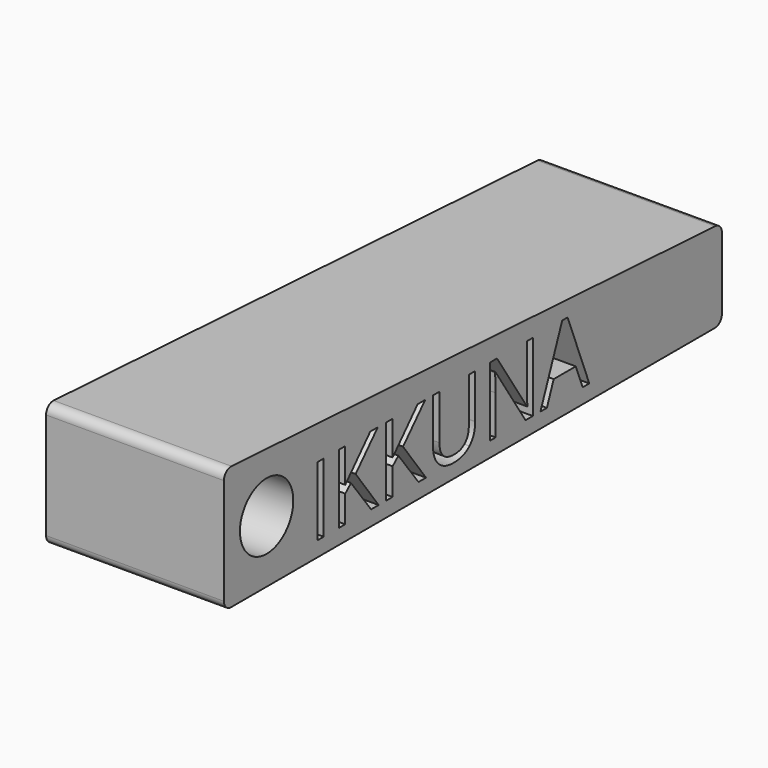
from build123d import *

# Parameters (mm, degrees)
F0_W     = 1.8008393743
F0_H     = 15.4953580059
F1_DEPTH = 40
F2_R     = 2


with BuildPart() as f1:
    # F0 (on Right) → F1 (new body)
    with BuildSketch(Plane.YZ):
        Polygon((0, 14), (0, 0), (140, 0), (140, 20), (0, 28), align=None)
        with Locations((27.1479118072, 11.1200559583)):
            Rectangle(F0_W, F0_H, mode=Mode.SUBTRACT)
        Polygon((37.0253970758, 12.135783628), (43.4894269202, 3.3723769554), (41.3697948883, 3.3723769554), (35.7230951554, 10.8877442876), (34.0986091661, 9.4463945059), (34.0986091661, 3.3723769554), (32.2977697919, 3.3723769554), (32.2977697919, 18.8677349612), (34.0986091661, 18.8677349612), (34.0986091661, 11.1827970664), (41.1256132782, 18.8677349612), (43.2554195439, 18.8677349612), align=None, mode=Mode.SUBTRACT)
        Polygon((50.3468604697, 12.135783628), (56.8108903141, 3.3723769554), (54.6912582823, 3.3723769554), (49.0445585493, 10.8877442876), (47.4200725601, 9.4463945059), (47.4200725601, 3.3723769554), (45.6192331858, 3.3723769554), (45.6192331858, 18.8677349612), (47.4200725601, 18.8677349612), (47.4200725601, 11.1827970664), (54.4470766722, 18.8677349612), (56.5768829378, 18.8677349612), align=None, mode=Mode.SUBTRACT)
        with BuildLine():
            Line((68.8402260215, 18.8677349612), (70.6410653957, 18.8677349612))
            Line((70.6410653957, 18.8677349612), (70.6410653957, 8.8427233032))
            add(Edge.make_bspline(
                [(70.6410653957, 8.8427233032), (70.6410653957, 6.1906397049), (69.0403192853, 4.6746788757)],
                knots=[0, 0, 0, 1, 1, 1], degree=2))
            add(Edge.make_bspline(
                [(69.0403192853, 4.6746788757), (67.4395731748, 3.1587180465), (64.6416588927, 3.1587180465)],
                knots=[0, 0, 0, 1, 1, 1], degree=2))
            add(Edge.make_bspline(
                [(64.6416588927, 3.1587180465), (61.8437446106, 3.1587180465), (60.3125224308, 4.6865488151)],
                knots=[0, 0, 0, 1, 1, 1], degree=2))
            add(Edge.make_bspline(
                [(60.3125224308, 4.6865488151), (58.781300251, 6.2143795837), (58.781300251, 8.8834202382)],
                knots=[0, 0, 0, 1, 1, 1], degree=2))
            Line((58.781300251, 8.8834202382), (58.781300251, 18.8677349612))
            Line((58.781300251, 18.8677349612), (60.5855310365, 18.8677349612))
            Line((60.5855310365, 18.8677349612), (60.5855310365, 8.757938022))
            add(Edge.make_bspline(
                [(60.5855310365, 8.757938022), (60.5855310365, 6.8180507864), (61.6453470525, 5.7785832379)],
                knots=[0, 0, 0, 1, 1, 1], degree=2))
            add(Edge.make_bspline(
                [(61.6453470525, 5.7785832379), (62.7051630684, 4.7391156895), (64.7603582865, 4.7391156895)],
                knots=[0, 0, 0, 1, 1, 1], degree=2))
            add(Edge.make_bspline(
                [(64.7603582865, 4.7391156895), (66.7205939896, 4.7391156895), (67.7804100055, 5.7836703548)],
                knots=[0, 0, 0, 1, 1, 1], degree=2))
            add(Edge.make_bspline(
                [(67.7804100055, 5.7836703548), (68.8402260215, 6.8282250201), (68.8402260215, 8.7782864895)],
                knots=[0, 0, 0, 1, 1, 1], degree=2))
            Line((68.8402260215, 8.7782864895), (68.8402260215, 18.8677349612))
        make_face(mode=Mode.SUBTRACT)
        with BuildLine():
            Line((86.8452283531, 18.8677349612), (86.8452283531, 3.3723769554))
            Line((86.8452283531, 3.3723769554), (84.7900331349, 3.3723769554))
            Line((84.7900331349, 3.3723769554), (76.3216792412, 16.3750476917))
            Line((76.3216792412, 16.3750476917), (76.2368939599, 16.3750476917))
            add(Edge.make_bspline(
                [(76.2368939599, 16.3750476917), (76.4064645225, 14.0858450973), (76.4064645225, 12.1798719742)],
                knots=[0, 0, 0, 1, 1, 1], degree=2))
            Line((76.4064645225, 12.1798719742), (76.4064645225, 3.3723769554))
            Line((76.4064645225, 3.3723769554), (74.7412815982, 3.3723769554))
            Line((74.7412815982, 3.3723769554), (74.7412815982, 18.8677349612))
            Line((74.7412815982, 18.8677349612), (76.7761283488, 18.8677349612))
            Line((76.7761283488, 18.8677349612), (85.2241337751, 5.9159353936))
            Line((85.2241337751, 5.9159353936), (85.3089190564, 5.9159353936))
            add(Edge.make_bspline(
                [(85.3089190564, 5.9159353936), (85.2885705888, 6.2008139387), (85.2139595413, 7.7540802917)],
                knots=[0, 0, 0, 1, 1, 1], degree=2))
            add(Edge.make_bspline(
                [(85.2139595413, 7.7540802917), (85.1393484938, 9.3073466446), (85.1596969613, 9.9754546611)],
                knots=[0, 0, 0, 1, 1, 1], degree=2))
            Line((85.1596969613, 9.9754546611), (85.1596969613, 18.8677349612))
            Line((85.1596969613, 18.8677349612), (86.8452283531, 18.8677349612))
        make_face(mode=Mode.SUBTRACT)
        Polygon((102.7102501853, 3.3723769554), (100.8449739972, 3.3723769554), (98.9152609954, 8.3000975031), (92.7055869948, 8.3000975031), (90.7996138717, 3.3723769554), (88.9750346187, 3.3723769554), (95.099923338, 18.932171775), (96.6158841672, 18.932171775), align=None, mode=Mode.SUBTRACT)
        with BuildLine():
            ThreePointArc((19.5, 14), (12, 6.5), (4.5, 14))
            ThreePointArc((4.5, 14), (12, 21.5), (19.5, 14))
        make_face(mode=Mode.SUBTRACT)
    extrude(amount=F1_DEPTH)

    # F2
    f2_edges = [f1.edges().sort_by_distance(p)[0] for p in [
        (20, 140, 20),
        (20, 0, 28),
        (20, 0, 0),
        (20, 140, 0),
    ]]
    fillet(f2_edges, radius=F2_R)


solid = f1.part
